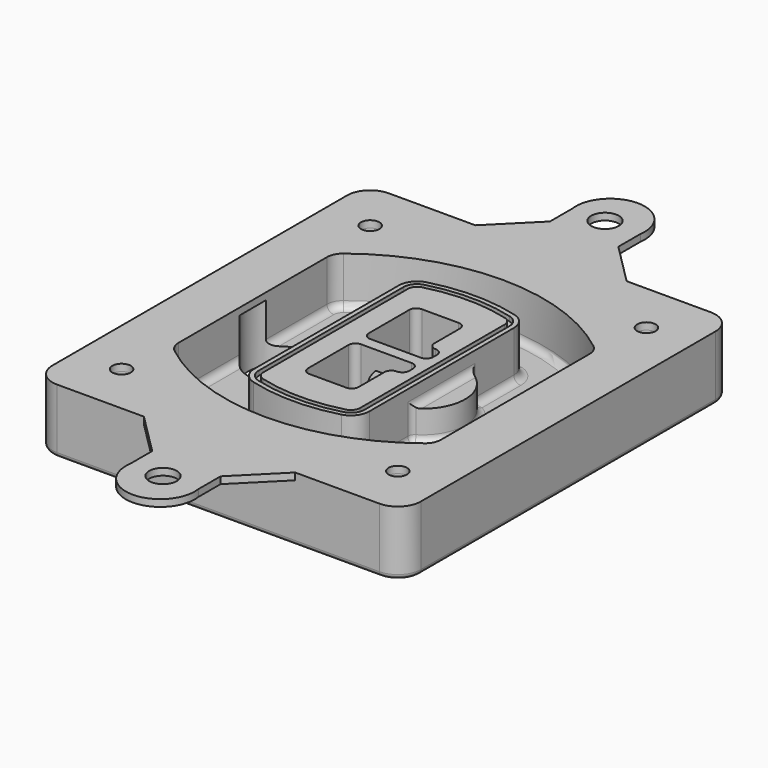
from build123d import *

# Parameters (mm, degrees)
F0_R      = 4
F1_DEPTH  = 25
F2_DEPTH  = 3
F3_DEPTH  = 18
F5_DEPTH  = 21
F6_DEPTH  = 2
F8_DEPTH  = 20
F9_DEPTH  = 16
F10_DEPTH = 25
F7_R      = 6
F7_R_2    = 4
F11_DEPTH = 6
F13_DEPTH = 9
F14_R     = 3
F15_R     = 2
F16_R     = 4
F16_R_2   = 6
F17_DEPTH = 3


with BuildPart() as f1:
    # F0 (on Top) → F1 (new body)
    with BuildSketch(Plane.XY):
        with BuildLine():
            ThreePointArc((-80, -80), (-77.0710678119, -87.0710678119), (-70, -90))
            Line((-70, -90), (70, -90))
            ThreePointArc((70, -90), (77.0710678119, -87.0710678119), (80, -80))
            Line((80, -80), (80, 80))
            ThreePointArc((80, 80), (77.0710678119, 87.0710678119), (70, 90))
            Line((70, 90), (-70, 90))
            ThreePointArc((-70, 90), (-77.0710678119, 87.0710678119), (-80, 80))
            Line((-80, 80), (-80, -80))
        make_face()
        with Locations((-60, -67.5)):
            Circle(F0_R, mode=Mode.SUBTRACT)
        with Locations((60, -67.5)):
            Circle(F0_R, mode=Mode.SUBTRACT)
        with Locations((-60, 67.5)):
            Circle(F0_R, mode=Mode.SUBTRACT)
        with BuildLine():
            ThreePointArc((-64, 40.2934422872), (-62.5820384798, 46.4328484224), (-58.6153846154, 51.3286200352))
            ThreePointArc((-58.6153846154, 51.3286200352), (0, 71.5), (58.6153846154, 51.3286200352))
            ThreePointArc((58.6153846154, 51.3286200352), (62.5820384798, 46.4328484224), (64, 40.2934422872))
            Line((64, 40.2934422872), (64, -40.2934422872))
            ThreePointArc((64, -40.2934422872), (62.5820384798, -46.4328484224), (58.6153846154, -51.3286200352))
            ThreePointArc((58.6153846154, -51.3286200352), (0, -71.5), (-58.6153846154, -51.3286200352))
            ThreePointArc((-58.6153846154, -51.3286200352), (-62.5820384798, -46.4328484224), (-64, -40.2934422872))
            Line((-64, -40.2934422872), (-64, 40.2934422872))
        make_face(mode=Mode.SUBTRACT)
        with Locations((60, 67.5)):
            Circle(F0_R, mode=Mode.SUBTRACT)
        with BuildLine():
            ThreePointArc((58.6153846154, 51.3286200352), (0, 71.5), (-58.6153846154, 51.3286200352))
            ThreePointArc((-58.6153846154, 51.3286200352), (-62.5820384798, 46.4328484224), (-64, 40.2934422872))
            Line((-64, 40.2934422872), (-64, -40.2934422872))
            ThreePointArc((-64, -40.2934422872), (-62.5820384798, -46.4328484224), (-58.6153846154, -51.3286200352))
            ThreePointArc((-58.6153846154, -51.3286200352), (0, -71.5), (58.6153846154, -51.3286200352))
            ThreePointArc((58.6153846154, -51.3286200352), (62.5820384798, -46.4328484224), (64, -40.2934422872))
            Line((64, -40.2934422872), (64, 40.2934422872))
            ThreePointArc((64, 40.2934422872), (62.5820384798, 46.4328484224), (58.6153846154, 51.3286200352))
        make_face()
        with BuildLine():
            Line((-60, -40.2934422872), (-60, 40.2934422872))
            ThreePointArc((-60, 40.2934422872), (-58.9871703427, 44.6787323838), (-56.1538461538, 48.1757121072))
            ThreePointArc((-56.1538461538, 48.1757121072), (0, 67.5), (56.1538461538, 48.1757121072))
            ThreePointArc((56.1538461538, 48.1757121072), (58.9871703427, 44.6787323838), (60, 40.2934422872))
            Line((60, 40.2934422872), (60, -40.2934422872))
            ThreePointArc((60, -40.2934422872), (58.9871703427, -44.6787323838), (56.1538461538, -48.1757121072))
            ThreePointArc((56.1538461538, -48.1757121072), (0, -67.5), (-56.1538461538, -48.1757121072))
            ThreePointArc((-56.1538461538, -48.1757121072), (-58.9871703427, -44.6787323838), (-60, -40.2934422872))
        make_face(mode=Mode.SUBTRACT)
        with BuildLine():
            ThreePointArc((-56.1538461538, 48.1757121072), (-58.9871703427, 44.6787323838), (-60, 40.2934422872))
            Line((-60, 40.2934422872), (-60, -40.2934422872))
            ThreePointArc((-60, -40.2934422872), (-58.9871703427, -44.6787323838), (-56.1538461538, -48.1757121072))
            ThreePointArc((-56.1538461538, -48.1757121072), (0, -67.5), (56.1538461538, -48.1757121072))
            ThreePointArc((56.1538461538, -48.1757121072), (58.9871703427, -44.6787323838), (60, -40.2934422872))
            Line((60, -40.2934422872), (60, 40.2934422872))
            ThreePointArc((60, 40.2934422872), (58.9871703427, 44.6787323838), (56.1538461538, 48.1757121072))
            ThreePointArc((56.1538461538, 48.1757121072), (0, 67.5), (-56.1538461538, 48.1757121072))
        make_face()
        with BuildLine():
            ThreePointArc((54.3076923077, 45.8110311612), (56.2910192399, 43.3631453548), (57, 40.2934422872))
            Line((57, 40.2934422872), (57, -40.2934422872))
            ThreePointArc((57, -40.2934422872), (56.2910192399, -43.3631453548), (54.3076923077, -45.8110311612))
            ThreePointArc((54.3076923077, -45.8110311612), (0, -64.5), (-54.3076923077, -45.8110311612))
            ThreePointArc((-54.3076923077, -45.8110311612), (-56.2910192399, -43.3631453548), (-57, -40.2934422872))
            Line((-57, -40.2934422872), (-57, 40.2934422872))
            ThreePointArc((-57, 40.2934422872), (-56.2910192399, 43.3631453548), (-54.3076923077, 45.8110311612))
            ThreePointArc((-54.3076923077, 45.8110311612), (0, 64.5), (54.3076923077, 45.8110311612))
        make_face(mode=Mode.SUBTRACT)
        with BuildLine():
            Line((57, -40.2934422872), (57, 40.2934422872))
            ThreePointArc((57, 40.2934422872), (56.2910192399, 43.3631453548), (54.3076923077, 45.8110311612))
            ThreePointArc((54.3076923077, 45.8110311612), (0, 64.5), (-54.3076923077, 45.8110311612))
            ThreePointArc((-54.3076923077, 45.8110311612), (-56.2910192399, 43.3631453548), (-57, 40.2934422872))
            Line((-57, 40.2934422872), (-57, -40.2934422872))
            ThreePointArc((-57, -40.2934422872), (-56.2910192399, -43.3631453548), (-54.3076923077, -45.8110311612))
            ThreePointArc((-54.3076923077, -45.8110311612), (0, -64.5), (54.3076923077, -45.8110311612))
            ThreePointArc((54.3076923077, -45.8110311612), (56.2910192399, -43.3631453548), (57, -40.2934422872))
        make_face()
    extrude(amount=-F1_DEPTH)

    # F0 (on Top) → F2 (join)
    with BuildSketch(Plane.XY):
        with BuildLine():
            ThreePointArc((-56.1538461538, 48.1757121072), (-58.9871703427, 44.6787323838), (-60, 40.2934422872))
            Line((-60, 40.2934422872), (-60, -40.2934422872))
            ThreePointArc((-60, -40.2934422872), (-58.9871703427, -44.6787323838), (-56.1538461538, -48.1757121072))
            ThreePointArc((-56.1538461538, -48.1757121072), (0, -67.5), (56.1538461538, -48.1757121072))
            ThreePointArc((56.1538461538, -48.1757121072), (58.9871703427, -44.6787323838), (60, -40.2934422872))
            Line((60, -40.2934422872), (60, 40.2934422872))
            ThreePointArc((60, 40.2934422872), (58.9871703427, 44.6787323838), (56.1538461538, 48.1757121072))
            ThreePointArc((56.1538461538, 48.1757121072), (0, 67.5), (-56.1538461538, 48.1757121072))
        make_face()
        with BuildLine():
            ThreePointArc((54.3076923077, 45.8110311612), (56.2910192399, 43.3631453548), (57, 40.2934422872))
            Line((57, 40.2934422872), (57, -40.2934422872))
            ThreePointArc((57, -40.2934422872), (56.2910192399, -43.3631453548), (54.3076923077, -45.8110311612))
            ThreePointArc((54.3076923077, -45.8110311612), (0, -64.5), (-54.3076923077, -45.8110311612))
            ThreePointArc((-54.3076923077, -45.8110311612), (-56.2910192399, -43.3631453548), (-57, -40.2934422872))
            Line((-57, -40.2934422872), (-57, 40.2934422872))
            ThreePointArc((-57, 40.2934422872), (-56.2910192399, 43.3631453548), (-54.3076923077, 45.8110311612))
            ThreePointArc((-54.3076923077, 45.8110311612), (0, 64.5), (54.3076923077, 45.8110311612))
        make_face(mode=Mode.SUBTRACT)
    extrude(amount=F2_DEPTH)

    # F0 (on Top) → F3 (cut)
    with BuildSketch(Plane.XY):
        with BuildLine():
            Line((57, -40.2934422872), (57, 40.2934422872))
            ThreePointArc((57, 40.2934422872), (56.2910192399, 43.3631453548), (54.3076923077, 45.8110311612))
            ThreePointArc((54.3076923077, 45.8110311612), (0, 64.5), (-54.3076923077, 45.8110311612))
            ThreePointArc((-54.3076923077, 45.8110311612), (-56.2910192399, 43.3631453548), (-57, 40.2934422872))
            Line((-57, 40.2934422872), (-57, -40.2934422872))
            ThreePointArc((-57, -40.2934422872), (-56.2910192399, -43.3631453548), (-54.3076923077, -45.8110311612))
            ThreePointArc((-54.3076923077, -45.8110311612), (0, -64.5), (54.3076923077, -45.8110311612))
            ThreePointArc((54.3076923077, -45.8110311612), (56.2910192399, -43.3631453548), (57, -40.2934422872))
        make_face()
    extrude(amount=-F3_DEPTH, mode=Mode.SUBTRACT)

    # F4 (on face) → F5 (join, through all)
    with BuildSketch(Plane.XY.offset(3)):
        with BuildLine():
            ThreePointArc((-25, -39.2465276821), (-23.3511545998, -44.1109737193), (-19.0842911877, -46.9702398883))
            ThreePointArc((-19.0842911877, -46.9702398883), (0, -49.5), (19.0842911877, -46.9702398883))
            ThreePointArc((19.0842911877, -46.9702398883), (23.3511545998, -44.1109737193), (25, -39.2465276821))
            Line((25, -39.2465276821), (25, 39.2465276821))
            ThreePointArc((25, 39.2465276821), (23.3511545998, 44.1109737193), (19.0842911877, 46.9702398883))
            ThreePointArc((19.0842911877, 46.9702398883), (0, 49.5), (-19.0842911877, 46.9702398883))
            ThreePointArc((-19.0842911877, 46.9702398883), (-23.3511545998, 44.1109737193), (-25, 39.2465276821))
            Line((-25, 39.2465276821), (-25, -39.2465276821))
        make_face()
        with BuildLine():
            ThreePointArc((18.5632183908, 45.0393118368), (21.7633659499, 42.89486221), (23, 39.2465276821))
            Line((23, 39.2465276821), (23, -39.2465276821))
            ThreePointArc((23, -39.2465276821), (21.7633659499, -42.89486221), (18.5632183908, -45.0393118368))
            ThreePointArc((18.5632183908, -45.0393118368), (0, -47.5), (-18.5632183908, -45.0393118368))
            ThreePointArc((-18.5632183908, -45.0393118368), (-21.7633659499, -42.89486221), (-23, -39.2465276821))
            Line((-23, -39.2465276821), (-23, 39.2465276821))
            ThreePointArc((-23, 39.2465276821), (-21.7633659499, 42.89486221), (-18.5632183908, 45.0393118368))
            ThreePointArc((-18.5632183908, 45.0393118368), (0, 47.5), (18.5632183908, 45.0393118368))
        make_face(mode=Mode.SUBTRACT)
        with BuildLine():
            Line((23, -39.2465276821), (23, 39.2465276821))
            ThreePointArc((23, 39.2465276821), (21.7633659499, 42.89486221), (18.5632183908, 45.0393118368))
            ThreePointArc((18.5632183908, 45.0393118368), (0, 47.5), (-18.5632183908, 45.0393118368))
            ThreePointArc((-18.5632183908, 45.0393118368), (-21.7633659499, 42.89486221), (-23, 39.2465276821))
            Line((-23, 39.2465276821), (-23, -39.2465276821))
            ThreePointArc((-23, -39.2465276821), (-21.7633659499, -42.89486221), (-18.5632183908, -45.0393118368))
            ThreePointArc((-18.5632183908, -45.0393118368), (0, -47.5), (18.5632183908, -45.0393118368))
            ThreePointArc((18.5632183908, -45.0393118368), (21.7633659499, -42.89486221), (23, -39.2465276821))
        make_face()
        with BuildLine():
            ThreePointArc((18.0421455939, 43.1083837852), (20.1755772999, 41.6787507007), (21, 39.2465276821))
            Line((21, 39.2465276821), (21, -39.2465276821))
            ThreePointArc((21, -39.2465276821), (20.1755772999, -41.6787507007), (18.0421455939, -43.1083837852))
            ThreePointArc((18.0421455939, -43.1083837852), (0, -45.5), (-18.0421455939, -43.1083837852))
            ThreePointArc((-18.0421455939, -43.1083837852), (-20.1755772999, -41.6787507007), (-21, -39.2465276821))
            Line((-21, -39.2465276821), (-21, 39.2465276821))
            ThreePointArc((-21, 39.2465276821), (-20.1755772999, 41.6787507007), (-18.0421455939, 43.1083837852))
            ThreePointArc((-18.0421455939, 43.1083837852), (0, 45.5), (18.0421455939, 43.1083837852))
        make_face(mode=Mode.SUBTRACT)
        with BuildLine():
            Line((21, -39.2465276821), (21, 39.2465276821))
            ThreePointArc((21, 39.2465276821), (20.1755772999, 41.6787507007), (18.0421455939, 43.1083837852))
            ThreePointArc((18.0421455939, 43.1083837852), (0, 45.5), (-18.0421455939, 43.1083837852))
            ThreePointArc((-18.0421455939, 43.1083837852), (-20.1755772999, 41.6787507007), (-21, 39.2465276821))
            Line((-21, 39.2465276821), (-21, -39.2465276821))
            ThreePointArc((-21, -39.2465276821), (-20.1755772999, -41.6787507007), (-18.0421455939, -43.1083837852))
            ThreePointArc((-18.0421455939, -43.1083837852), (0, -45.5), (18.0421455939, -43.1083837852))
            ThreePointArc((18.0421455939, -43.1083837852), (20.1755772999, -41.6787507007), (21, -39.2465276821))
        make_face()
        with BuildLine():
            Line((-8, -2.5), (14, -2.5))
            ThreePointArc((14, -2.5), (16.1213203436, -3.3786796564), (17, -5.5))
            Line((17, -5.5), (17, -7.5))
            ThreePointArc((17, -7.5), (16.1213203436, -9.6213203436), (14, -10.5))
            ThreePointArc((14, -10.5), (11.8786796564, -11.3786796564), (11, -13.5))
            Line((11, -13.5), (11, -27.5))
            ThreePointArc((11, -27.5), (10.1213203436, -29.6213203436), (8, -30.5))
            Line((8, -30.5), (-8, -30.5))
            ThreePointArc((-8, -30.5), (-10.1213203436, -29.6213203436), (-11, -27.5))
            Line((-11, -27.5), (-11, -5.5))
            ThreePointArc((-11, -5.5), (-10.1213203436, -3.3786796564), (-8, -2.5))
        make_face(mode=Mode.SUBTRACT)
        with BuildLine():
            ThreePointArc((-8, 2.5), (-10.1213203436, 3.3786796564), (-11, 5.5))
            Line((-11, 5.5), (-11, 27.5))
            ThreePointArc((-11, 27.5), (-10.1213203436, 29.6213203436), (-8, 30.5))
            Line((-8, 30.5), (8, 30.5))
            ThreePointArc((8, 30.5), (10.1213203436, 29.6213203436), (11, 27.5))
            Line((11, 27.5), (11, 13.5))
            ThreePointArc((11, 13.5), (11.8786796564, 11.3786796564), (14, 10.5))
            ThreePointArc((14, 10.5), (16.1213203436, 9.6213203436), (17, 7.5))
            Line((17, 7.5), (17, 5.5))
            ThreePointArc((17, 5.5), (16.1213203436, 3.3786796564), (14, 2.5))
            Line((14, 2.5), (-8, 2.5))
        make_face(mode=Mode.SUBTRACT)
    extrude(amount=-F5_DEPTH)

    # F4 (on face) → F6 (cut)
    with BuildSketch(Plane.XY.offset(3)):
        with BuildLine():
            Line((23, -39.2465276821), (23, 39.2465276821))
            ThreePointArc((23, 39.2465276821), (21.7633659499, 42.89486221), (18.5632183908, 45.0393118368))
            ThreePointArc((18.5632183908, 45.0393118368), (0, 47.5), (-18.5632183908, 45.0393118368))
            ThreePointArc((-18.5632183908, 45.0393118368), (-21.7633659499, 42.89486221), (-23, 39.2465276821))
            Line((-23, 39.2465276821), (-23, -39.2465276821))
            ThreePointArc((-23, -39.2465276821), (-21.7633659499, -42.89486221), (-18.5632183908, -45.0393118368))
            ThreePointArc((-18.5632183908, -45.0393118368), (0, -47.5), (18.5632183908, -45.0393118368))
            ThreePointArc((18.5632183908, -45.0393118368), (21.7633659499, -42.89486221), (23, -39.2465276821))
        make_face()
        with BuildLine():
            ThreePointArc((18.0421455939, 43.1083837852), (20.1755772999, 41.6787507007), (21, 39.2465276821))
            Line((21, 39.2465276821), (21, -39.2465276821))
            ThreePointArc((21, -39.2465276821), (20.1755772999, -41.6787507007), (18.0421455939, -43.1083837852))
            ThreePointArc((18.0421455939, -43.1083837852), (0, -45.5), (-18.0421455939, -43.1083837852))
            ThreePointArc((-18.0421455939, -43.1083837852), (-20.1755772999, -41.6787507007), (-21, -39.2465276821))
            Line((-21, -39.2465276821), (-21, 39.2465276821))
            ThreePointArc((-21, 39.2465276821), (-20.1755772999, 41.6787507007), (-18.0421455939, 43.1083837852))
            ThreePointArc((-18.0421455939, 43.1083837852), (0, 45.5), (18.0421455939, 43.1083837852))
        make_face(mode=Mode.SUBTRACT)
    extrude(amount=-F6_DEPTH, mode=Mode.SUBTRACT)

    # F7 (on face) → F8 (join)
    with BuildSketch(Plane(origin=(0, 0, -25), x_dir=(1, 0, 0), z_dir=(0, 0, -1))):
        with BuildLine():
            ThreePointArc((3.28842436, 0), (16.7567035675, 13.4682792075), (30.224982775, 0))
            Line((30.224982775, 0), (35.224982775, 0))
            ThreePointArc((35.224982775, 0), (16.7567035675, 18.4682792075), (-1.71157564, 0))
            Line((-1.71157564, 0), (3.28842436, 0))
        make_face()
        with BuildLine():
            Line((3.28842436, 0), (30.224982775, 0))
            ThreePointArc((30.224982775, 0), (16.7567035675, 13.4682792075), (3.28842436, 0))
        make_face()
        with BuildLine():
            ThreePointArc((3.28842436, 0), (16.7567035675, -13.4682792075), (30.224982775, 0))
            Line((30.224982775, 0), (3.28842436, 0))
        make_face()
        with BuildLine():
            Line((35.224982775, 0), (30.224982775, 0))
            ThreePointArc((30.224982775, 0), (16.7567035675, -13.4682792075), (3.28842436, 0))
            Line((3.28842436, 0), (-1.71157564, 0))
            ThreePointArc((-1.71157564, 0), (16.7567035675, -18.4682792075), (35.224982775, 0))
        make_face()
    extrude(amount=-F8_DEPTH)

    # F7 (on face) → F9 (cut)
    with BuildSketch(Plane(origin=(0, 0, -25), x_dir=(1, 0, 0), z_dir=(0, 0, -1))):
        with BuildLine():
            Line((3.28842436, 0), (30.224982775, 0))
            ThreePointArc((30.224982775, 0), (16.7567035675, 13.4682792075), (3.28842436, 0))
        make_face()
        with BuildLine():
            ThreePointArc((3.28842436, 0), (16.7567035675, -13.4682792075), (30.224982775, 0))
            Line((30.224982775, 0), (3.28842436, 0))
        make_face()
    extrude(amount=-F9_DEPTH, mode=Mode.SUBTRACT)

    # F7 (on face) → F10 (cut)
    with BuildSketch(Plane(origin=(0, 0, -25), x_dir=(1, 0, 0), z_dir=(0, 0, -1))):
        with BuildLine():
            Line((-59.0318229325, 0), (-32.0952645175, 0))
            ThreePointArc((-32.0952645175, 0), (-45.563543725, 13.4682792075), (-59.0318229325, 0))
        make_face()
        with BuildLine():
            ThreePointArc((-59.0318229325, 0), (-45.563543725, -13.4682792075), (-32.0952645175, 0))
            Line((-32.0952645175, 0), (-59.0318229325, 0))
        make_face()
    extrude(amount=-F10_DEPTH, mode=Mode.SUBTRACT)

    # F7 (on face) → F11 (cut)
    with BuildSketch(Plane(origin=(0, 0, -25), x_dir=(1, 0, 0), z_dir=(0, 0, -1))):
        with Locations((60, -67.5)):
            Circle(F7_R)
        with Locations((60, -67.5)):
            Circle(F7_R_2, mode=Mode.SUBTRACT)
        with Locations((60, -67.5)):
            Circle(F7_R)
        with Locations((60, -67.5)):
            Circle(F7_R_2, mode=Mode.SUBTRACT)
        with Locations((-60, -67.5)):
            Circle(F7_R)
        with Locations((-60, -67.5)):
            Circle(F7_R_2, mode=Mode.SUBTRACT)
        with Locations((-60, -67.5)):
            Circle(F7_R)
        with Locations((-60, -67.5)):
            Circle(F7_R_2, mode=Mode.SUBTRACT)
        with Locations((-60, 67.5)):
            Circle(F7_R)
        with Locations((-60, 67.5)):
            Circle(F7_R_2, mode=Mode.SUBTRACT)
        with Locations((-60, 67.5)):
            Circle(F7_R)
        with Locations((-60, 67.5)):
            Circle(F7_R_2, mode=Mode.SUBTRACT)
        with Locations((60, 67.5)):
            Circle(F7_R)
        with Locations((60, 67.5)):
            Circle(F7_R_2, mode=Mode.SUBTRACT)
        with Locations((60, 67.5)):
            Circle(F7_R)
        with Locations((60, 67.5)):
            Circle(F7_R_2, mode=Mode.SUBTRACT)
    extrude(amount=-F11_DEPTH, mode=Mode.SUBTRACT)

    # F12 (on face) → F13 (cut, through all)
    with BuildSketch(Plane(origin=(0, 0, -9), x_dir=(1, 0, 0), z_dir=(0, 0, -1))):
        with BuildLine():
            Line((11, 13.5), (11, 17.5481537753))
            ThreePointArc((11, 17.5481537753), (2.5696536419, 11.8239143813), (-1.5415842455, 2.5))
            Line((-1.5415842455, 2.5), (3.5224848595, 2.5))
            ThreePointArc((3.5224848595, 2.5), (6.1857188154, 8.3455872281), (11.2536447004, 12.2927168648))
            ThreePointArc((11.2536447004, 12.2927168648), (11.0640958889, 12.8831798879), (11, 13.5))
        make_face()
        with BuildLine():
            ThreePointArc((11.2536447004, -12.2927168648), (6.1857188154, -8.3455872281), (3.5224848595, -2.5))
            Line((3.5224848595, -2.5), (-1.5415842455, -2.5))
            ThreePointArc((-1.5415842455, -2.5), (2.5696536419, -11.8239143813), (11, -17.5481537753))
            Line((11, -17.5481537753), (11, -13.5))
            ThreePointArc((11, -13.5), (11.0640958889, -12.8831798879), (11.2536447004, -12.2927168648))
        make_face()
        with BuildLine():
            ThreePointArc((11.2536447004, 12.2927168648), (6.1857188154, 8.3455872281), (3.5224848595, 2.5))
            Line((3.5224848595, 2.5), (14, 2.5))
            ThreePointArc((14, 2.5), (16.1213203436, 3.3786796564), (17, 5.5))
            Line((17, 5.5), (17, 7.5))
            ThreePointArc((17, 7.5), (16.1213203436, 9.6213203436), (14, 10.5))
            ThreePointArc((14, 10.5), (12.3601599782, 10.9878446101), (11.2536447004, 12.2927168648))
        make_face()
        with BuildLine():
            Line((14, -2.5), (3.5224848595, -2.5))
            ThreePointArc((3.5224848595, -2.5), (6.1857188154, -8.3455872281), (11.2536447004, -12.2927168648))
            ThreePointArc((11.2536447004, -12.2927168648), (12.3601599782, -10.9878446101), (14, -10.5))
            ThreePointArc((14, -10.5), (16.1213203436, -9.6213203436), (17, -7.5))
            Line((17, -7.5), (17, -5.5))
            ThreePointArc((17, -5.5), (16.1213203436, -3.3786796564), (14, -2.5))
        make_face()
    extrude(amount=F13_DEPTH, mode=Mode.SUBTRACT)

    # F14
    f14_edges = [f1.edges().sort_by_distance(p)[0] for p in [
        (-57, -23.703476, -18),
        (-57, 23.703476, -18),
        (25, 0, -5),
        (25, 16.526506, -11.5),
        (25, -16.526506, -11.5),
        (25, -27.886517, -18),
        (35.224983, 0, -18),
    ]]
    fillet(f14_edges, radius=F14_R)

    # F15
    f15_edges = [f1.edges().sort_by_distance(p)[0] for p in [
        (0, -90, -25),
    ]]
    fillet(f15_edges, radius=F15_R)

    # F16 (on face) → F17 (join, through all)
    with BuildSketch(Plane.XY):
        with BuildLine():
            Line((-32.2943330016, 90), (-70, 90))
            ThreePointArc((-70, 90), (-77.0710678119, 87.0710678119), (-80, 80))
            Line((-80, 80), (-80, -80))
            ThreePointArc((-80, -80), (-77.0710678119, -87.0710678119), (-70, -90))
            Line((-70, -90), (-32.2943330016, -90))
            Line((-32.2943330016, -90), (33.3965680732, -90))
            Line((33.3965680732, -90), (70, -90))
            ThreePointArc((70, -90), (77.0710678119, -87.0710678119), (80, -80))
            Line((80, -80), (80, 80))
            ThreePointArc((80, 80), (77.0710678119, 87.0710678119), (70, 90))
            Line((70, 90), (33.3965680732, 90))
            Line((33.3965680732, 90), (-32.2943330016, 90))
        make_face()
        with Locations((-60, -67.5)):
            Circle(F16_R, mode=Mode.SUBTRACT)
        with Locations((60, -67.5)):
            Circle(F16_R, mode=Mode.SUBTRACT)
        with Locations((-60, 67.5)):
            Circle(F16_R, mode=Mode.SUBTRACT)
        with BuildLine():
            ThreePointArc((-60, 40.2934422872), (-58.9871703427, 44.6787323838), (-56.1538461538, 48.1757121072))
            ThreePointArc((-56.1538461538, 48.1757121072), (0, 67.5), (56.1538461538, 48.1757121072))
            ThreePointArc((56.1538461538, 48.1757121072), (58.9871703427, 44.6787323838), (60, 40.2934422872))
            Line((60, 40.2934422872), (60, -40.2934422872))
            ThreePointArc((60, -40.2934422872), (58.9871703427, -44.6787323838), (56.1538461538, -48.1757121072))
            ThreePointArc((56.1538461538, -48.1757121072), (0, -67.5), (-56.1538461538, -48.1757121072))
            ThreePointArc((-56.1538461538, -48.1757121072), (-58.9871703427, -44.6787323838), (-60, -40.2934422872))
            Line((-60, -40.2934422872), (-60, 40.2934422872))
        make_face(mode=Mode.SUBTRACT)
        with Locations((60, 67.5)):
            Circle(F16_R, mode=Mode.SUBTRACT)
        with BuildLine():
            Line((-14.2943330016, 108), (-32.2943330016, 90))
            Line((-32.2943330016, 90), (33.3965680732, 90))
            Line((33.3965680732, 90), (15.3965680732, 108))
            Line((15.3965680732, 108), (15.3965680732, 120))
            ThreePointArc((15.3965680732, 120), (0.5511175358, 137.1476960545), (-14.2943330016, 120))
            Line((-14.2943330016, 120), (-14.2943330016, 108))
        make_face()
        with Locations((0, 120)):
            Circle(F16_R_2, mode=Mode.SUBTRACT)
        with BuildLine():
            Line((33.3965680732, -90), (-32.2943330016, -90))
            Line((-32.2943330016, -90), (-14.2943330016, -108))
            Line((-14.2943330016, -108), (-14.2943330016, -120))
            ThreePointArc((-14.2943330016, -120), (0.5511175358, -137.1476960545), (15.3965680732, -120))
            Line((15.3965680732, -120), (15.3965680732, -108))
            Line((15.3965680732, -108), (33.3965680732, -90))
        make_face()
        with Locations((0, -120)):
            Circle(F16_R_2, mode=Mode.SUBTRACT)
    extrude(amount=F17_DEPTH)


solid = f1.part
